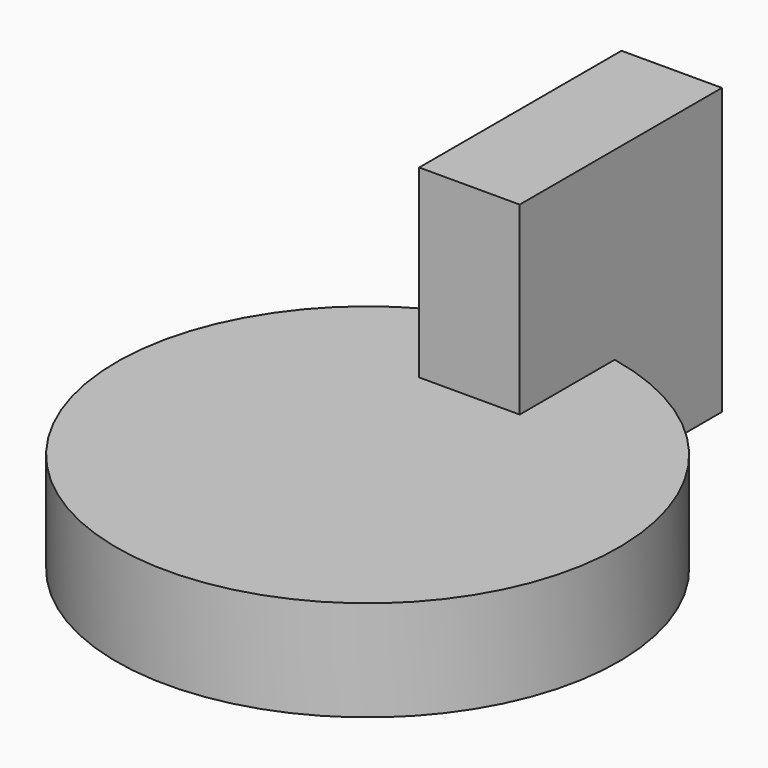
from build123d import *

# Parameters (mm, degrees)
F0_R     = 63.5
F1_DEPTH = 25.4
F2_W     = 63.917932
F2_H     = 72.142676
F3_DEPTH = 12.7


with BuildPart() as f1:
    # F0 (on Top) → F1 (new body)
    with BuildSketch(Plane.XY):
        Circle(F0_R)
    extrude(amount=F1_DEPTH)

    # F2 (on Right) → F3 (join, symmetric)
    with BuildSketch(Plane.YZ):
        with Locations((64.152928, 36.071338)):
            Rectangle(F2_W, F2_H)
    extrude(amount=F3_DEPTH, both=True)


solid = f1.part
